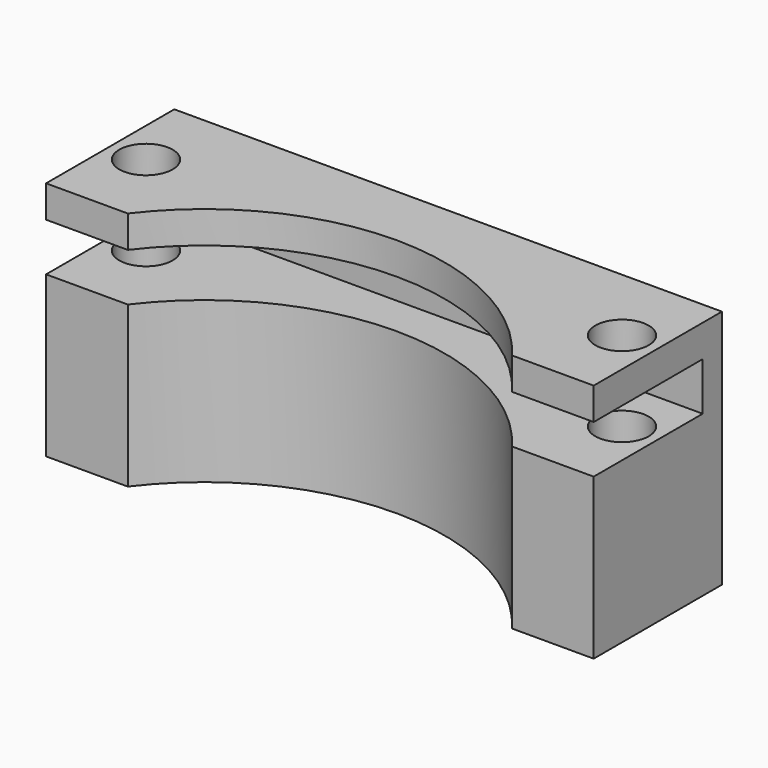
from build123d import *

# Parameters (mm, degrees)
F0_W     = 20.5
F0_H     = 6
F0_R     = 1
F1_DEPTH = 9
F2_W     = 5.1
F2_H     = 1.8
F3_DEPTH = 20.501
F4_R     = 9
F5_DEPTH = 25


with BuildPart() as f1:
    # F0 (on Top) → F1 (new body)
    with BuildSketch(Plane.XY):
        Rectangle(F0_W, F0_H)
        with Locations((-8.91, 0)):
            Circle(F0_R, mode=Mode.SUBTRACT)
        with Locations((8.91, 0)):
            Circle(F0_R, mode=Mode.SUBTRACT)
    extrude(amount=F1_DEPTH)

    # F2 (on face) → F3 (cut, through all)
    with BuildSketch(Plane.YZ.offset(10.25)):
        with Locations((-0.45, 6.9)):
            Rectangle(F2_W, F2_H)
    extrude(amount=-F3_DEPTH, mode=Mode.SUBTRACT)

    # F4 (on face) → F5 (cut)
    with BuildSketch(Plane(origin=(0, 0, 0), x_dir=(1, 0, 0), z_dir=(0, 0, -1))):
        with Locations((0, 8.41)):
            Circle(F4_R)
    extrude(amount=-F5_DEPTH, mode=Mode.SUBTRACT)


solid = f1.part
